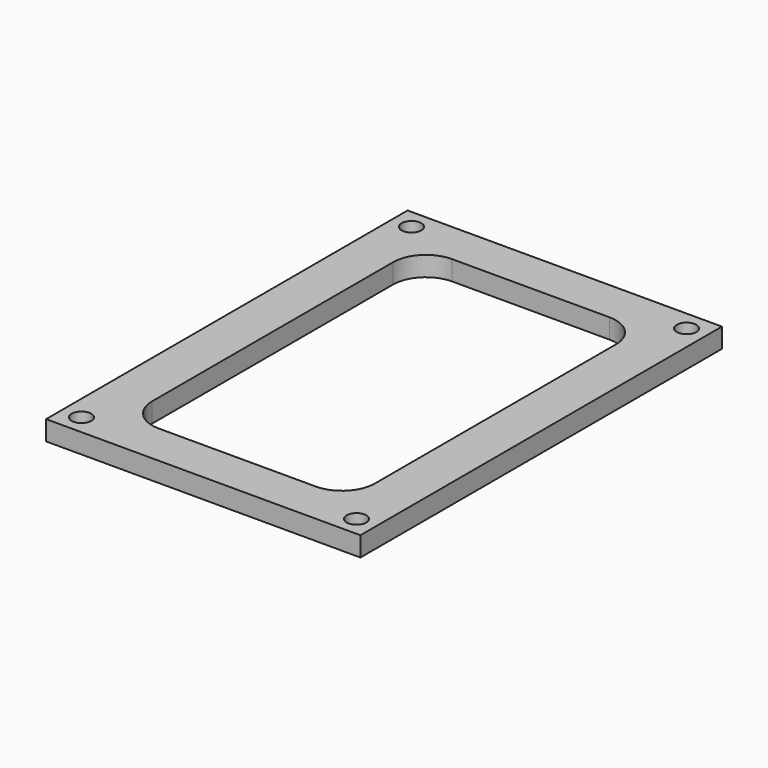
from build123d import *

# Parameters (mm, degrees)
F0_W     = 48
F0_H     = 69
F0_R     = 1.5
F1_DEPTH = 3
F2_W     = 34
F2_H     = 56
F3_DEPTH = 3
F4_R     = 5
F5_R     = 5


with BuildPart() as f1:
    # F0 (on Top) → F1 (new body)
    with BuildSketch(Plane.XY):
        Rectangle(F0_W, F0_H)
        with Locations((-21, -31.5)):
            Circle(F0_R, mode=Mode.SUBTRACT)
        with Locations((21, -31.5)):
            Circle(F0_R, mode=Mode.SUBTRACT)
        with Locations((-21, 31.5)):
            Circle(F0_R, mode=Mode.SUBTRACT)
        with Locations((21, 31.5)):
            Circle(F0_R, mode=Mode.SUBTRACT)
    extrude(amount=F1_DEPTH)

    # F2 (on face) → F3 (cut, through all)
    with BuildSketch(Plane.XY.offset(3)):
        Rectangle(F2_W, F2_H)
    extrude(amount=-F3_DEPTH, mode=Mode.SUBTRACT)

    # F4
    f4_edges = [f1.edges().sort_by_distance(p)[0] for p in [
        (-17, 28, 1.5),
    ]]
    fillet(f4_edges, radius=F4_R)

    # F5
    f5_edges = [f1.edges().sort_by_distance(p)[0] for p in [
        (-17, -28, 1.5),
        (17, -28, 1.5),
        (17, 28, 1.5),
    ]]
    fillet(f5_edges, radius=F5_R)


solid = f1.part
